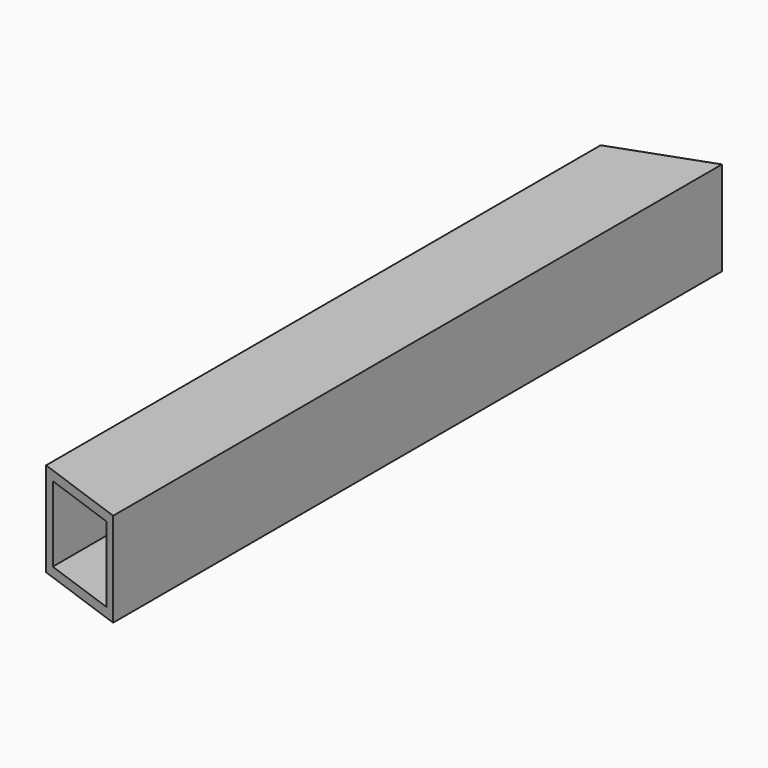
from build123d import *

# Parameters (mm, degrees)
F0_W          = 50
F0_H          = 50
F0_W_2        = 40
F0_H_2        = 40
F1_DEPTH      = 202
F3_DEPTH      = 25.001
F3_DEPTH_BACK = 25.001


with BuildPart() as f1:
    # F0 (on Front) → F1 (new body, symmetric)
    with BuildSketch(Plane.XZ):
        Rectangle(F0_W, F0_H)
        Rectangle(F0_W_2, F0_H_2, mode=Mode.SUBTRACT)
    extrude(amount=F1_DEPTH, both=True)

    # F2 (on Top) → F3 (cut, two sides)
    with BuildSketch(Plane.XY) as f3_sk:
        Polygon((-25, 184), (25, 202), (-25, 202), align=None)
        Polygon((-25, -202), (25, -202), (-25, -184), align=None)
    extrude(amount=-F3_DEPTH, mode=Mode.SUBTRACT)
    extrude(f3_sk.sketch, amount=F3_DEPTH_BACK, mode=Mode.SUBTRACT)


solid = f1.part
